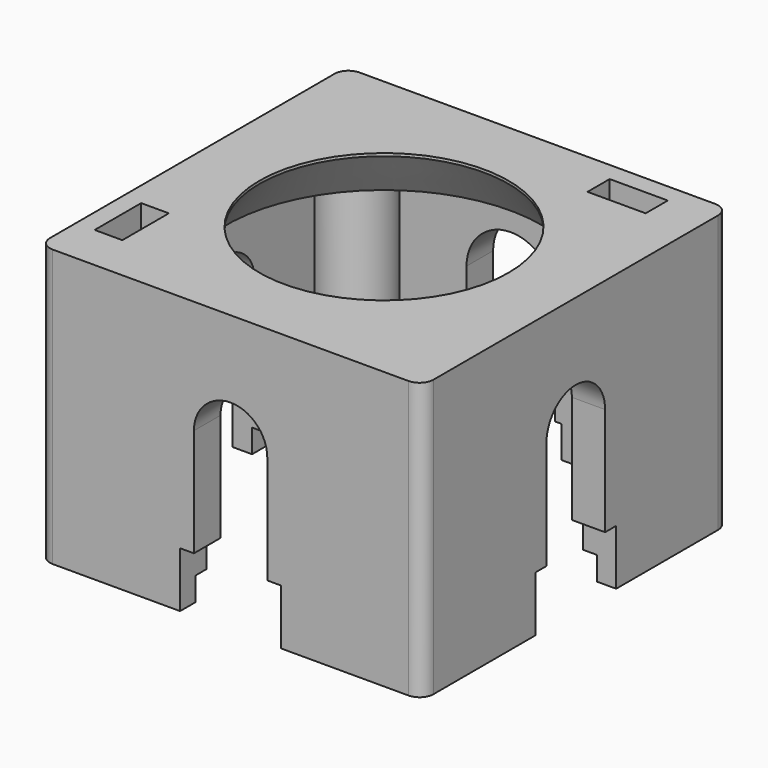
from build123d import *

# Parameters (mm, degrees)
SKETCH042_W           = 13.85
SKETCH042_H           = 13.85
PAD020_DEPTH          = 10
POCKET016_DEPTH       = 8.2
SKETCH054_R           = 4.5
POCKET025_DEPTH       = 0.001
POCKET025_DEPTH_BACK  = 10.001
SKETCH044_W           = 12.45
SKETCH044_H           = 12.45
POCKET017_DEPTH       = 0.85
SKETCH045_W           = 3.65
SKETCH045_H           = 2
POCKET018_DEPTH       = 2
POLARPATTERN004_COUNT = 4
POCKET019_DEPTH       = 6.926
POCKET020_DEPTH       = 6.926
POCKET021_DEPTH       = 6.926
POCKET022_DEPTH       = 6.926
SKETCH050_R           = 0.75
HOLE_DEPTH            = 6
SKETCH052_W           = 2
SKETCH052_H           = 2.1
SKETCH052_W_2         = 2.1
SKETCH052_H_2         = 2
POCKET023_DEPTH       = 3
SKETCH053_W           = 1
SKETCH053_H           = 2.1
SKETCH053_W_2         = 2.1
SKETCH053_H_2         = 1
POCKET024_DEPTH       = 5.851
FILLET_R              = 0.5
CHAMFER001_1_SIZE2    = 0.5
CHAMFER001_1_SIZE     = 0.8
CHAMFER001_2_SIZE2    = 0.5
CHAMFER001_2_SIZE     = 0.8


with BuildPart() as part:
    # Sketch042 → Pad020 (new body)
    with BuildSketch(Plane.XY):
        Rectangle(SKETCH042_W, SKETCH042_H)
    extrude(amount=PAD020_DEPTH)

    # Sketch043 → Pocket016 (cut)
    with BuildSketch(Plane.XY):
        with BuildLine():
            Line((-5.725, 4.025), (-5.725, -5.725))
            Line((-5.725, -5.725), (4.025, -5.725))
            ThreePointArc((5.725, -4.025), (4.305761, -4.305761), (4.025, -5.725))
            Line((5.725, -4.025), (5.725, 5.725))
            Line((5.725, 5.725), (-4.025, 5.725))
            ThreePointArc((-5.725, 4.025), (-4.305761, 4.305761), (-4.025, 5.725))
        make_face()
    extrude(amount=POCKET016_DEPTH, mode=Mode.SUBTRACT)

    # Sketch054 → Pocket025 (cut, two sides)
    with BuildSketch(Plane.XY) as pocket025_sk:
        Circle(SKETCH054_R)
    extrude(amount=-POCKET025_DEPTH, mode=Mode.SUBTRACT)
    extrude(pocket025_sk.sketch, amount=POCKET025_DEPTH_BACK, mode=Mode.SUBTRACT)

    # Sketch055 → Groove003 (revolve, cut)
    with BuildSketch(Plane.XZ):
        Polygon((4.5, 9.9), (5.7, 8.2), (4.5, 8.2), align=None)
    revolve(axis=Axis((0, 0, 0), (0, 0, 1)), mode=Mode.SUBTRACT)

    # Sketch044 → Pocket017 (cut)
    with BuildSketch(Plane.XY):
        Rectangle(SKETCH044_W, SKETCH044_H)
    extrude(amount=POCKET017_DEPTH, mode=Mode.SUBTRACT)

    # Sketch045 → Pocket018 (cut)
    with BuildSketch(Plane.XY):
        with Locations((0, 5.925)):
            Rectangle(SKETCH045_W, SKETCH045_H)
    pocket018 = extrude(amount=POCKET018_DEPTH, mode=Mode.SUBTRACT)

    # PolarPattern004: Pocket018 ×4 about axis
    polarpattern004_axis = Axis((0, 0, 0), (0, 0, 1))
    for i in range(1, POLARPATTERN004_COUNT):
        add(pocket018.rotate(polarpattern004_axis, i * 360 / POLARPATTERN004_COUNT), mode=Mode.SUBTRACT)

    # Sketch046 → Pocket019 (cut, through all)
    with BuildSketch(Plane.XZ):
        with BuildLine():
            ThreePointArc((1.6, 5.9), (0, 7.5), (-1.6, 5.9))
            Line((-1.6, 5.9), (-1.6, 1.9))
            Line((-1.6, 1.9), (-1.825, 1.9))
            Line((-1.825, 1.9), (-1.825, -0.1))
            Line((1.825, -0.1), (-1.825, -0.1))
            Line((1.825, 1.9), (1.825, -0.1))
            Line((1.6, 1.9), (1.825, 1.9))
            Line((1.6, 5.9), (1.6, 1.9))
        make_face()
    extrude(amount=-POCKET019_DEPTH, mode=Mode.SUBTRACT)

    # Sketch047 → Pocket020 (cut, through all)
    with BuildSketch(Plane.XZ):
        with BuildLine():
            ThreePointArc((1.325, 5.9), (0, 7.225), (-1.325, 5.9))
            Line((-1.325, 5.9), (-1.325, 1.9))
            Line((-1.325, 1.9), (-1.825, 1.9))
            Line((-1.825, 1.9), (-1.825, -0.1))
            Line((1.825, -0.1), (-1.825, -0.1))
            Line((1.825, 1.9), (1.825, -0.1))
            Line((1.325, 1.9), (1.825, 1.9))
            Line((1.325, 5.9), (1.325, 1.9))
        make_face()
    extrude(amount=POCKET020_DEPTH, mode=Mode.SUBTRACT)

    # Sketch048 → Pocket021 (cut, through all)
    with BuildSketch(Plane.YZ):
        with BuildLine():
            ThreePointArc((1.325, 5.9), (0, 7.225), (-1.325, 5.9))
            Line((-1.325, 5.9), (-1.325, 1.9))
            Line((-1.325, 1.9), (-1.825, 1.9))
            Line((-1.825, 1.9), (-1.825, -0.1))
            Line((1.825, -0.1), (-1.825, -0.1))
            Line((1.825, 1.9), (1.825, -0.1))
            Line((1.325, 1.9), (1.825, 1.9))
            Line((1.325, 5.9), (1.325, 1.9))
        make_face()
    extrude(amount=POCKET021_DEPTH, mode=Mode.SUBTRACT)

    # Sketch049 → Pocket022 (cut, through all)
    with BuildSketch(Plane.YZ):
        with BuildLine():
            ThreePointArc((1.325, 5.9), (0, 7.225), (-1.325, 5.9))
            Line((-1.325, 5.9), (-1.325, 2))
            Line((-1.325, 2), (-1.825, 2))
            Line((-1.825, 2), (-1.825, 0))
            Line((1.825, 0), (-1.825, 0))
            Line((1.825, 2), (1.825, 0))
            Line((1.325, 2), (1.825, 2))
            Line((1.325, 5.9), (1.325, 2))
        make_face()
    extrude(amount=-POCKET022_DEPTH, mode=Mode.SUBTRACT)

    # Sketch050 → Hole (cut)
    with BuildSketch(Plane.XY):
        with Locations((-5.225, 5.225)):
            Circle(SKETCH050_R)
        with Locations((5.225, -5.225)):
            Circle(SKETCH050_R)
    extrude(amount=HOLE_DEPTH, mode=Mode.SUBTRACT)

    # Sketch052 → Pocket023 (cut)
    with BuildSketch(Plane.XY):
        with Locations((-5.25, -4.2)):
            Rectangle(SKETCH052_W, SKETCH052_H)
        with Locations((4.2, 5.25)):
            Rectangle(SKETCH052_W_2, SKETCH052_H_2)
    extrude(amount=POCKET023_DEPTH, mode=Mode.SUBTRACT)

    # Sketch053 → Pocket024 (cut, through all)
    with BuildSketch(Plane.XY.offset(4.15)):
        with Locations((-5.75, -4.2)):
            Rectangle(SKETCH053_W, SKETCH053_H)
        with Locations((4.2, 5.75)):
            Rectangle(SKETCH053_W_2, SKETCH053_H_2)
    extrude(amount=POCKET024_DEPTH, mode=Mode.SUBTRACT)

    # Fillet
    fillet_edges = [part.edges().sort_by_distance(p)[0] for p in [
        (-6.925, 6.925, 5),
        (-6.925, -6.925, 5),
        (6.925, -6.925, 5),
        (6.925, 6.925, 5),
    ]]
    fillet(fillet_edges, radius=FILLET_R)

    # Chamfer001 1
    chamfer001_1_edges = [part.edges().sort_by_distance(p)[0] for p in [
        (-5.725, -4.2, 3),
    ]]
    chamfer001_1_side = part.faces().sort_by_distance((-5.725, 2.925, 0.9721))[0]
    chamfer(chamfer001_1_edges, length=CHAMFER001_1_SIZE, length2=CHAMFER001_1_SIZE2, reference=chamfer001_1_side)

    # Chamfer001 2
    chamfer001_2_edges = [part.edges().sort_by_distance(p)[0] for p in [
        (4.2, 5.725, 3),
    ]]
    chamfer001_2_side = part.faces().sort_by_distance((5.4875, 5.725, 0.9721))[0]
    chamfer(chamfer001_2_edges, length=CHAMFER001_2_SIZE, length2=CHAMFER001_2_SIZE2, reference=chamfer001_2_side)


with BuildPart() as part_1:
    # Body005 placement: moved
    add(part.part.moved(Location((0, 0, -5.9))))


solid = part_1.part
